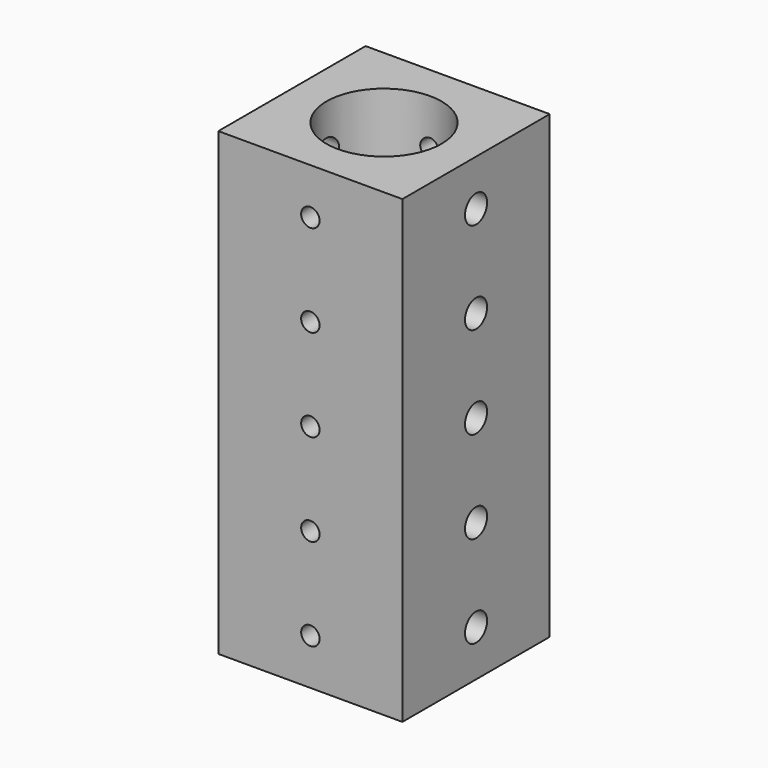
from build123d import *

# Parameters (mm, degrees)
F0_W     = 20
F0_H     = 20
F0_R     = 6.25
F1_DEPTH = 50
F2_R     = 1.5
F3_DEPTH = 20
F4_R     = 1
F5_DEPTH = 20


with BuildPart() as f1:
    # F0 (on Top) → F1 (new body)
    with BuildSketch(Plane.XY):
        Rectangle(F0_W, F0_H)
        Circle(F0_R, mode=Mode.SUBTRACT)
    extrude(amount=F1_DEPTH)

    # F2 (on face) → F3 (cut, through all)
    with BuildSketch(Plane.YZ.offset(10)):
        with Locations((0, 45)):
            Circle(F2_R)
        with Locations((0, 35)):
            Circle(F2_R)
        with Locations((0, 25)):
            Circle(F2_R)
        with Locations((0, 15)):
            Circle(F2_R)
        with Locations((0, 5)):
            Circle(F2_R)
    extrude(amount=-F3_DEPTH, mode=Mode.SUBTRACT)

    # F4 (on face) → F5 (cut, through all)
    with BuildSketch(Plane.XZ.offset(10)):
        with Locations((0, 45)):
            Circle(F4_R)
        with Locations((0, 35)):
            Circle(F4_R)
        with Locations((0, 25)):
            Circle(F4_R)
        with Locations((0, 15)):
            Circle(F4_R)
        with Locations((0, 5)):
            Circle(F4_R)
    extrude(amount=-F5_DEPTH, mode=Mode.SUBTRACT)


solid = f1.part
